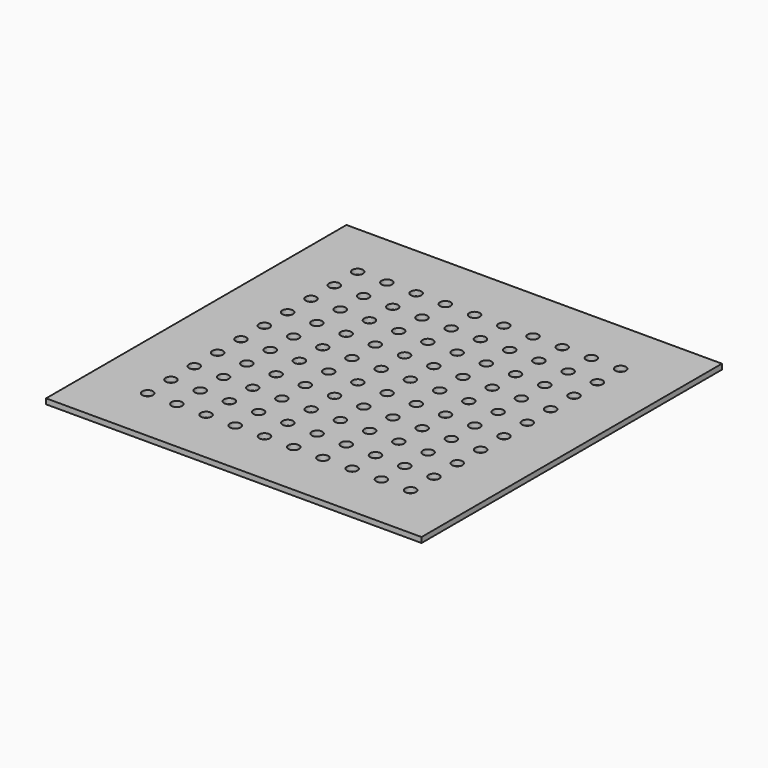
from build123d import *

# Parameters (mm, degrees)
SKETCH_W  = 450
SKETCH_H  = 450
SKETCH_R  = 6.35
PAD_DEPTH = 6.35


with BuildPart() as part:
    # Sketch → Pad (new body)
    with BuildSketch(Plane.XY):
        with Locations((225, 225)):
            Rectangle(SKETCH_W, SKETCH_H)
        with Locations((67.471132, 382.456564)):
            Circle(SKETCH_R, mode=Mode.SUBTRACT)
        with Locations((102.47112, 382.485485)):
            Circle(SKETCH_R, mode=Mode.SUBTRACT)
        with Locations((137.471108, 382.514407)):
            Circle(SKETCH_R, mode=Mode.SUBTRACT)
        with Locations((172.471096, 382.543329)):
            Circle(SKETCH_R, mode=Mode.SUBTRACT)
        with Locations((207.471084, 382.57225)):
            Circle(SKETCH_R, mode=Mode.SUBTRACT)
        with Locations((242.471072, 382.601172)):
            Circle(SKETCH_R, mode=Mode.SUBTRACT)
        with Locations((277.47106, 382.630094)):
            Circle(SKETCH_R, mode=Mode.SUBTRACT)
        with Locations((312.471048, 382.659015)):
            Circle(SKETCH_R, mode=Mode.SUBTRACT)
        with Locations((347.471037, 382.687937)):
            Circle(SKETCH_R, mode=Mode.SUBTRACT)
        with Locations((382.471025, 382.716859)):
            Circle(SKETCH_R, mode=Mode.SUBTRACT)
        with Locations((67.500054, 347.456576)):
            Circle(SKETCH_R, mode=Mode.SUBTRACT)
        with Locations((102.500042, 347.485497)):
            Circle(SKETCH_R, mode=Mode.SUBTRACT)
        with Locations((137.50003, 347.514419)):
            Circle(SKETCH_R, mode=Mode.SUBTRACT)
        with Locations((172.500018, 347.543341)):
            Circle(SKETCH_R, mode=Mode.SUBTRACT)
        with Locations((207.500006, 347.572262)):
            Circle(SKETCH_R, mode=Mode.SUBTRACT)
        with Locations((242.499994, 347.601184)):
            Circle(SKETCH_R, mode=Mode.SUBTRACT)
        with Locations((277.499982, 347.630106)):
            Circle(SKETCH_R, mode=Mode.SUBTRACT)
        with Locations((312.49997, 347.659027)):
            Circle(SKETCH_R, mode=Mode.SUBTRACT)
        with Locations((347.499958, 347.687949)):
            Circle(SKETCH_R, mode=Mode.SUBTRACT)
        with Locations((382.499946, 347.716871)):
            Circle(SKETCH_R, mode=Mode.SUBTRACT)
        with Locations((67.528975, 312.456588)):
            Circle(SKETCH_R, mode=Mode.SUBTRACT)
        with Locations((102.528963, 312.485509)):
            Circle(SKETCH_R, mode=Mode.SUBTRACT)
        with Locations((137.528952, 312.514431)):
            Circle(SKETCH_R, mode=Mode.SUBTRACT)
        with Locations((172.52894, 312.543353)):
            Circle(SKETCH_R, mode=Mode.SUBTRACT)
        with Locations((207.528928, 312.572274)):
            Circle(SKETCH_R, mode=Mode.SUBTRACT)
        with Locations((242.528916, 312.601196)):
            Circle(SKETCH_R, mode=Mode.SUBTRACT)
        with Locations((277.528904, 312.630118)):
            Circle(SKETCH_R, mode=Mode.SUBTRACT)
        with Locations((312.528892, 312.659039)):
            Circle(SKETCH_R, mode=Mode.SUBTRACT)
        with Locations((347.52888, 312.687961)):
            Circle(SKETCH_R, mode=Mode.SUBTRACT)
        with Locations((382.528868, 312.716882)):
            Circle(SKETCH_R, mode=Mode.SUBTRACT)
        with Locations((67.557897, 277.4566)):
            Circle(SKETCH_R, mode=Mode.SUBTRACT)
        with Locations((102.557885, 277.485521)):
            Circle(SKETCH_R, mode=Mode.SUBTRACT)
        with Locations((137.557873, 277.514443)):
            Circle(SKETCH_R, mode=Mode.SUBTRACT)
        with Locations((172.557861, 277.543365)):
            Circle(SKETCH_R, mode=Mode.SUBTRACT)
        with Locations((207.557849, 277.572286)):
            Circle(SKETCH_R, mode=Mode.SUBTRACT)
        with Locations((242.557837, 277.601208)):
            Circle(SKETCH_R, mode=Mode.SUBTRACT)
        with Locations((277.557825, 277.630129)):
            Circle(SKETCH_R, mode=Mode.SUBTRACT)
        with Locations((312.557813, 277.659051)):
            Circle(SKETCH_R, mode=Mode.SUBTRACT)
        with Locations((347.557801, 277.687973)):
            Circle(SKETCH_R, mode=Mode.SUBTRACT)
        with Locations((382.55779, 277.716894)):
            Circle(SKETCH_R, mode=Mode.SUBTRACT)
        with Locations((67.586819, 242.456612)):
            Circle(SKETCH_R, mode=Mode.SUBTRACT)
        with Locations((102.586807, 242.485533)):
            Circle(SKETCH_R, mode=Mode.SUBTRACT)
        with Locations((137.586795, 242.514455)):
            Circle(SKETCH_R, mode=Mode.SUBTRACT)
        with Locations((172.586783, 242.543376)):
            Circle(SKETCH_R, mode=Mode.SUBTRACT)
        with Locations((207.586771, 242.572298)):
            Circle(SKETCH_R, mode=Mode.SUBTRACT)
        with Locations((242.586759, 242.60122)):
            Circle(SKETCH_R, mode=Mode.SUBTRACT)
        with Locations((277.586747, 242.630141)):
            Circle(SKETCH_R, mode=Mode.SUBTRACT)
        with Locations((312.586735, 242.659063)):
            Circle(SKETCH_R, mode=Mode.SUBTRACT)
        with Locations((347.586723, 242.687985)):
            Circle(SKETCH_R, mode=Mode.SUBTRACT)
        with Locations((382.586711, 242.716906)):
            Circle(SKETCH_R, mode=Mode.SUBTRACT)
        with Locations((67.61574, 207.456624)):
            Circle(SKETCH_R, mode=Mode.SUBTRACT)
        with Locations((102.615728, 207.485545)):
            Circle(SKETCH_R, mode=Mode.SUBTRACT)
        with Locations((137.615716, 207.514467)):
            Circle(SKETCH_R, mode=Mode.SUBTRACT)
        with Locations((172.615704, 207.543388)):
            Circle(SKETCH_R, mode=Mode.SUBTRACT)
        with Locations((207.615693, 207.57231)):
            Circle(SKETCH_R, mode=Mode.SUBTRACT)
        with Locations((242.615681, 207.601232)):
            Circle(SKETCH_R, mode=Mode.SUBTRACT)
        with Locations((277.615669, 207.630153)):
            Circle(SKETCH_R, mode=Mode.SUBTRACT)
        with Locations((312.615657, 207.659075)):
            Circle(SKETCH_R, mode=Mode.SUBTRACT)
        with Locations((347.615645, 207.687997)):
            Circle(SKETCH_R, mode=Mode.SUBTRACT)
        with Locations((382.615633, 207.716918)):
            Circle(SKETCH_R, mode=Mode.SUBTRACT)
        with Locations((67.644662, 172.456635)):
            Circle(SKETCH_R, mode=Mode.SUBTRACT)
        with Locations((102.64465, 172.485557)):
            Circle(SKETCH_R, mode=Mode.SUBTRACT)
        with Locations((137.644638, 172.514479)):
            Circle(SKETCH_R, mode=Mode.SUBTRACT)
        with Locations((172.644626, 172.5434)):
            Circle(SKETCH_R, mode=Mode.SUBTRACT)
        with Locations((207.644614, 172.572322)):
            Circle(SKETCH_R, mode=Mode.SUBTRACT)
        with Locations((242.644602, 172.601244)):
            Circle(SKETCH_R, mode=Mode.SUBTRACT)
        with Locations((277.64459, 172.630165)):
            Circle(SKETCH_R, mode=Mode.SUBTRACT)
        with Locations((312.644578, 172.659087)):
            Circle(SKETCH_R, mode=Mode.SUBTRACT)
        with Locations((347.644566, 172.688009)):
            Circle(SKETCH_R, mode=Mode.SUBTRACT)
        with Locations((382.644554, 172.71693)):
            Circle(SKETCH_R, mode=Mode.SUBTRACT)
        with Locations((67.673584, 137.456647)):
            Circle(SKETCH_R, mode=Mode.SUBTRACT)
        with Locations((102.673572, 137.485569)):
            Circle(SKETCH_R, mode=Mode.SUBTRACT)
        with Locations((137.67356, 137.514491)):
            Circle(SKETCH_R, mode=Mode.SUBTRACT)
        with Locations((172.673548, 137.543412)):
            Circle(SKETCH_R, mode=Mode.SUBTRACT)
        with Locations((207.673536, 137.572334)):
            Circle(SKETCH_R, mode=Mode.SUBTRACT)
        with Locations((242.673524, 137.601256)):
            Circle(SKETCH_R, mode=Mode.SUBTRACT)
        with Locations((277.673512, 137.630177)):
            Circle(SKETCH_R, mode=Mode.SUBTRACT)
        with Locations((312.6735, 137.659099)):
            Circle(SKETCH_R, mode=Mode.SUBTRACT)
        with Locations((347.673488, 137.688021)):
            Circle(SKETCH_R, mode=Mode.SUBTRACT)
        with Locations((382.673476, 137.716942)):
            Circle(SKETCH_R, mode=Mode.SUBTRACT)
        with Locations((67.702505, 102.456659)):
            Circle(SKETCH_R, mode=Mode.SUBTRACT)
        with Locations((102.702493, 102.485581)):
            Circle(SKETCH_R, mode=Mode.SUBTRACT)
        with Locations((137.702481, 102.514503)):
            Circle(SKETCH_R, mode=Mode.SUBTRACT)
        with Locations((172.702469, 102.543424)):
            Circle(SKETCH_R, mode=Mode.SUBTRACT)
        with Locations((207.702457, 102.572346)):
            Circle(SKETCH_R, mode=Mode.SUBTRACT)
        with Locations((242.702446, 102.601268)):
            Circle(SKETCH_R, mode=Mode.SUBTRACT)
        with Locations((277.702434, 102.630189)):
            Circle(SKETCH_R, mode=Mode.SUBTRACT)
        with Locations((312.702422, 102.659111)):
            Circle(SKETCH_R, mode=Mode.SUBTRACT)
        with Locations((347.70241, 102.688033)):
            Circle(SKETCH_R, mode=Mode.SUBTRACT)
        with Locations((382.702398, 102.716954)):
            Circle(SKETCH_R, mode=Mode.SUBTRACT)
        with Locations((67.731427, 67.456671)):
            Circle(SKETCH_R, mode=Mode.SUBTRACT)
        with Locations((102.731415, 67.485593)):
            Circle(SKETCH_R, mode=Mode.SUBTRACT)
        with Locations((137.731403, 67.514515)):
            Circle(SKETCH_R, mode=Mode.SUBTRACT)
        with Locations((172.731391, 67.543436)):
            Circle(SKETCH_R, mode=Mode.SUBTRACT)
        with Locations((207.731379, 67.572358)):
            Circle(SKETCH_R, mode=Mode.SUBTRACT)
        with Locations((242.731367, 67.60128)):
            Circle(SKETCH_R, mode=Mode.SUBTRACT)
        with Locations((277.731355, 67.630201)):
            Circle(SKETCH_R, mode=Mode.SUBTRACT)
        with Locations((312.731343, 67.659123)):
            Circle(SKETCH_R, mode=Mode.SUBTRACT)
        with Locations((347.731331, 67.688044)):
            Circle(SKETCH_R, mode=Mode.SUBTRACT)
        with Locations((382.731319, 67.716966)):
            Circle(SKETCH_R, mode=Mode.SUBTRACT)
    extrude(amount=PAD_DEPTH)


solid = part.part
